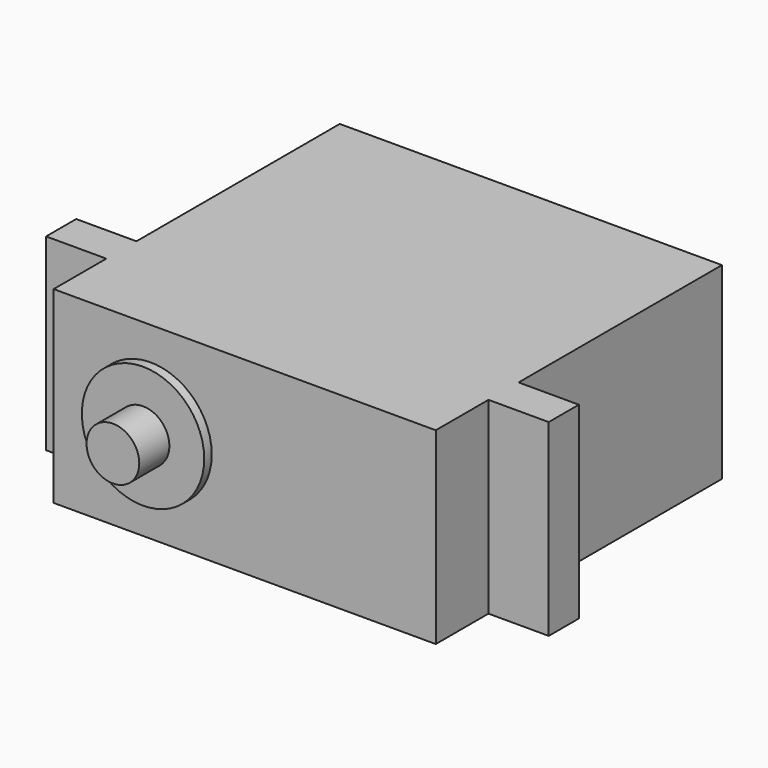
from build123d import *

# Parameters (mm, degrees)
CYLINDER940_R          = 6.5
CYLINDER940_DEPTH      = 1
CYLINDER940_ROLL_ANGLE = 90
BOX536_W               = 40.6
BOX536_H               = 38
BOX536_DEPTH           = 20
CYLINDER864_R          = 2.8
CYLINDER864_DEPTH      = 10
CYLINDER864_ROLL_ANGLE = 90
BOX537_W               = 53.4
BOX537_H               = 4
BOX537_DEPTH           = 20


with BuildPart() as cylinder1083:
    # Cylinder940 → Cylinder940 (new body)
    with BuildSketch(Plane.XY):
        Circle(CYLINDER940_R)
    extrude(amount=CYLINDER940_DEPTH)


with BuildPart() as cylinder1083_1:
    # Cylinder940 roll: moved
    add(cylinder1083.part.rotate(Axis((0, 0, 0), (1, 0, 0)), CYLINDER940_ROLL_ANGLE))


with BuildPart() as cylinder1083_2:
    # Cylinder940 placement: moved
    add(cylinder1083_1.part.moved(Location((37, 66.5, -11))))


with BuildPart() as cube:
    # Box536 → Box536 (new body)
    with BuildSketch(Plane(origin=(-0.3, 0, 0), x_dir=(1, 0, 0), z_dir=(0, 0, 1))):
        with Locations((20.3, 19)):
            Rectangle(BOX536_W, BOX536_H)
    extrude(amount=BOX536_DEPTH)


with BuildPart() as cylinder1026:
    # Cylinder864 → Cylinder864 (new body)
    with BuildSketch(Plane.XY):
        Circle(CYLINDER864_R)
    extrude(amount=CYLINDER864_DEPTH)


with BuildPart() as cylinder1026_1:
    # Cylinder864 roll: moved
    add(cylinder1026.part.rotate(Axis((0, 0, 0), (1, 0, 0)), CYLINDER864_ROLL_ANGLE))


with BuildPart() as cylinder1026_2:
    # Cylinder864 placement: moved
    add(cylinder1026_1.part.moved(Location((10, 5, 10))))


with BuildPart() as steering_servo:
    # Box537 → Box537 (new body)
    with BuildSketch(Plane(origin=(-6.7, 7, 0), x_dir=(1, 0, 0), z_dir=(0, 0, 1))):
        with Locations((26.7, 2)):
            Rectangle(BOX537_W, BOX537_H)
    extrude(amount=BOX537_DEPTH)

    # Fusion585: union Cube, Cylinder1026
    add(cube.part)
    add(cylinder1026_2.part)


with BuildPart() as steering_servo_1:
    # Fusion585 placement: moved
    add(steering_servo.part.moved(Location((27, 66.5, -21))))

    # Fusion588: union Cylinder1083
    add(cylinder1083_2.part)


with BuildPart() as steering_servo_2:
    # Fusion588 placement: moved
    add(steering_servo_1.part.moved(Location((1, 0, 0))))


solid = steering_servo_2.part
